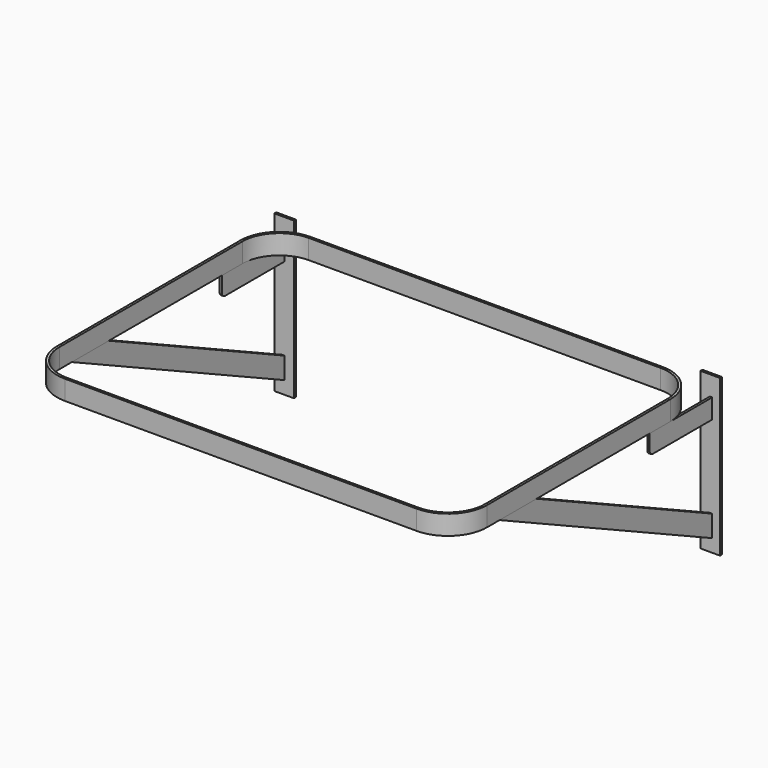
from build123d import *

# Parameters (mm, degrees)
F1_DEPTH = 25
F2_W     = 25
F2_H     = 200
F3_DEPTH = 3
F4_W     = 100
F4_H     = 25
F5_DEPTH = 3
F6_R     = 5


with BuildPart() as f1:
    # F0 (on Top) → F1 (new body)
    with BuildSketch(Plane.XY):
        with BuildLine():
            Line((225, -20), (-225, -20))
            ThreePointArc((-225, -20), (-260.355339, -34.644661), (-275, -70))
            Line((-275, -70), (-275, -362.920367))
            ThreePointArc((-275, -362.920367), (-260.355339, -398.275706), (-225, -412.920367))
            Line((-225, -412.920367), (225, -412.920367))
            ThreePointArc((225, -412.920367), (260.355339, -398.275706), (275, -362.920367))
            Line((275, -362.920367), (275, -70))
            ThreePointArc((275, -70), (260.355339, -34.644661), (225, -20))
        make_face()
        with BuildLine():
            ThreePointArc((-272, -70), (-258.234019, -36.765981), (-225, -23))
            Line((-225, -23), (225, -23))
            ThreePointArc((225, -23), (258.234019, -36.765981), (272, -70))
            Line((272, -70), (272, -362.920367))
            ThreePointArc((272, -362.920367), (258.234019, -396.154386), (225, -409.920367))
            Line((225, -409.920367), (-225, -409.920367))
            ThreePointArc((-225, -409.920367), (-258.234019, -396.154386), (-272, -362.920367))
            Line((-272, -362.920367), (-272, -70))
        make_face(mode=Mode.SUBTRACT)
    extrude(amount=-F1_DEPTH)


with BuildPart() as f3:
    # F2 (on Front) → F3 (new body)
    with BuildSketch(Plane.XZ):
        with Locations((-272.5, -100)):
            Rectangle(F2_W, F2_H)
        with Locations((272.5, -100)):
            Rectangle(F2_W, F2_H)
    extrude(amount=F3_DEPTH)


with BuildPart() as f5:
    # F4 (on face) → F5 (new body)
    with BuildSketch(Plane(origin=(-275, 0, 0), x_dir=(0, -1, 0), z_dir=(-1, 0, 0))):
        with Locations((53, -37.5)):
            Rectangle(F4_W, F4_H)
        Polygon((283.765328, -25), (3, -155.923022), (3, -183.50747), (342.920367, -25), align=None)
    extrude(amount=-F5_DEPTH)

    # F6
    f6_edges = [f5.edges().sort_by_distance(p)[0] for p in [
        (-273.5, -103, -50),
    ]]
    fillet(f6_edges, radius=F6_R)


with BuildPart() as f7_1:
    # F7: instance of F5
    add(f5.part.mirror(Plane.YZ))


solid = Compound([f1.part, f3.part, f5.part, f7_1.part])
